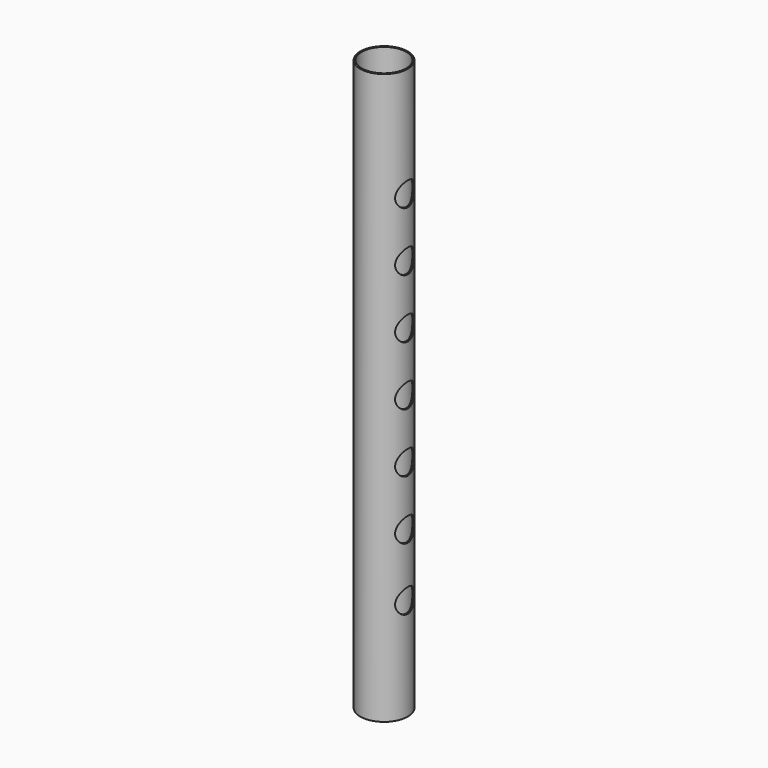
from build123d import *

# Parameters (mm, degrees)
F0_R     = 50.8
F1_DEPTH = 1219.2
F2_R     = 47.625
F3_DEPTH = 1244.6
F4_R     = 25.4
F5_DEPTH = 50.8


with BuildPart() as f1:
    # F0 (on Top) → F1 (new body)
    with BuildSketch(Plane.XY):
        Circle(F0_R)
        Circle(F0_R)
    extrude(amount=F1_DEPTH)

    # F2 (on face) → F3 (cut)
    with BuildSketch(Plane.XY.offset(1219.2)):
        Circle(F2_R)
    extrude(amount=-F3_DEPTH, mode=Mode.SUBTRACT)

    # F4 (on Right) → F5 (cut)
    with BuildSketch(Plane.YZ):
        with Locations((0, 984.00108)):
            Circle(F4_R)
        with Locations((0, 857.695818)):
            Circle(F4_R)
        with Locations((0, 731.390556)):
            Circle(F4_R)
        with Locations((0, 605.085294)):
            Circle(F4_R)
        with Locations((0, 478.780032)):
            Circle(F4_R)
        with Locations((0, 352.47477)):
            Circle(F4_R)
        with Locations((0, 218.692679)):
            Circle(F4_R)
    extrude(amount=F5_DEPTH, mode=Mode.SUBTRACT)


solid = f1.part
